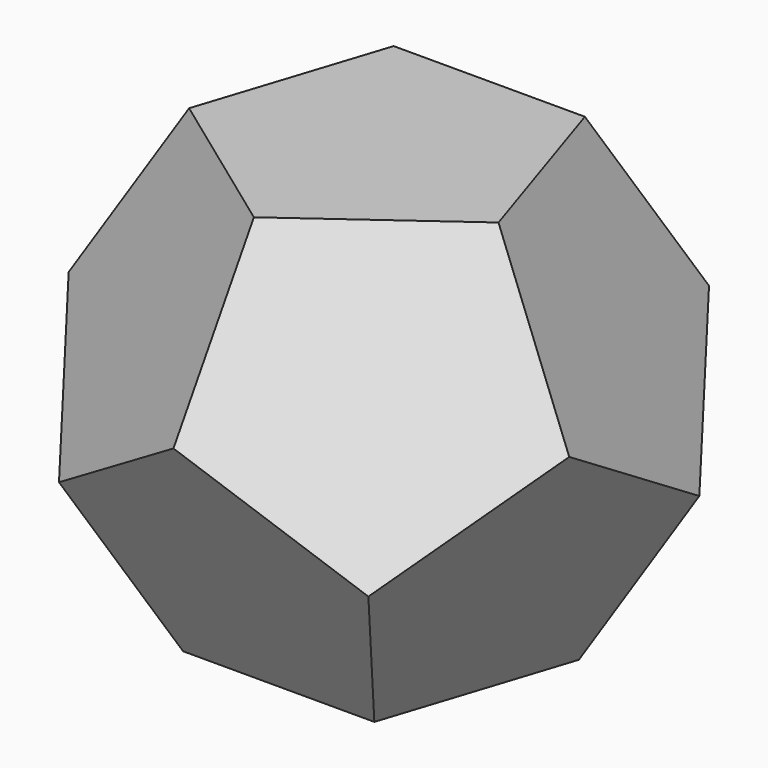
from build123d import *

# Parameters (mm, degrees)
F6_COUNT = 5
F7_COUNT = 2


with BuildPart() as f4:
    # F3 (on line) → F4 section 0
    with BuildSketch(Plane.XY.offset(11.1351636441), mode=Mode.PRIVATE) as f4_s0:
        Polygon((5, 6.8819096024), (-5, 6.8819096024), (-8.0901699437, -2.6286555606), (0, -8.5065080835), (8.0901699437, -2.6286555606), align=None)
    loft([f4_s0.sketch, Vertex(0, 0, 0)])


with BuildPart() as f5_1:
    # F5: instance of F4
    add(f4.part.mirror(Plane(origin=(0, 4.5879397349, 7.4234424294), x_dir=(-1, 0, 0), z_dir=(0, 0.8506508084, -0.5257311121))))


with BuildPart() as f6_1:
    # F6: instance of F5_1
    add(f5_1.part.rotate(Axis((0, 0, 5.5675818221), (0, 0, 1)), 1 * 360 / F6_COUNT))


with BuildPart() as f6_2:
    # F6: instance of F5_1
    add(f5_1.part.rotate(Axis((0, 0, 5.5675818221), (0, 0, 1)), 2 * 360 / F6_COUNT))


with BuildPart() as f6_3:
    # F6: instance of F5_1
    add(f5_1.part.rotate(Axis((0, 0, 5.5675818221), (0, 0, 1)), 3 * 360 / F6_COUNT))


with BuildPart() as f6_4:
    # F6: instance of F5_1
    add(f5_1.part.rotate(Axis((0, 0, 5.5675818221), (0, 0, 1)), 4 * 360 / F6_COUNT))


with BuildPart() as f4_1:
    add(f4.part)

    add(f5_1.part)  # F7 merges F5_1

    add(f6_1.part)  # F7 merges F6_1

    add(f6_2.part)  # F7 merges F6_2

    add(f6_3.part)  # F7 merges F6_3

    add(f6_4.part)  # F7 merges F6_4
    # F7: F4, F6_3, F6_4, F5_1, F6_2, F6_1 ×2 about axis
    f7_axis = Axis((0, 0, 0), (1, 0, 0))
    for i in range(1, F7_COUNT):
        add(f4.part.rotate(f7_axis, i * 360 / F7_COUNT))
        add(f6_3.part.rotate(f7_axis, i * 360 / F7_COUNT))
        add(f6_4.part.rotate(f7_axis, i * 360 / F7_COUNT))
        add(f5_1.part.rotate(f7_axis, i * 360 / F7_COUNT))
        add(f6_2.part.rotate(f7_axis, i * 360 / F7_COUNT))
        add(f6_1.part.rotate(f7_axis, i * 360 / F7_COUNT))


solid = f4_1.part
